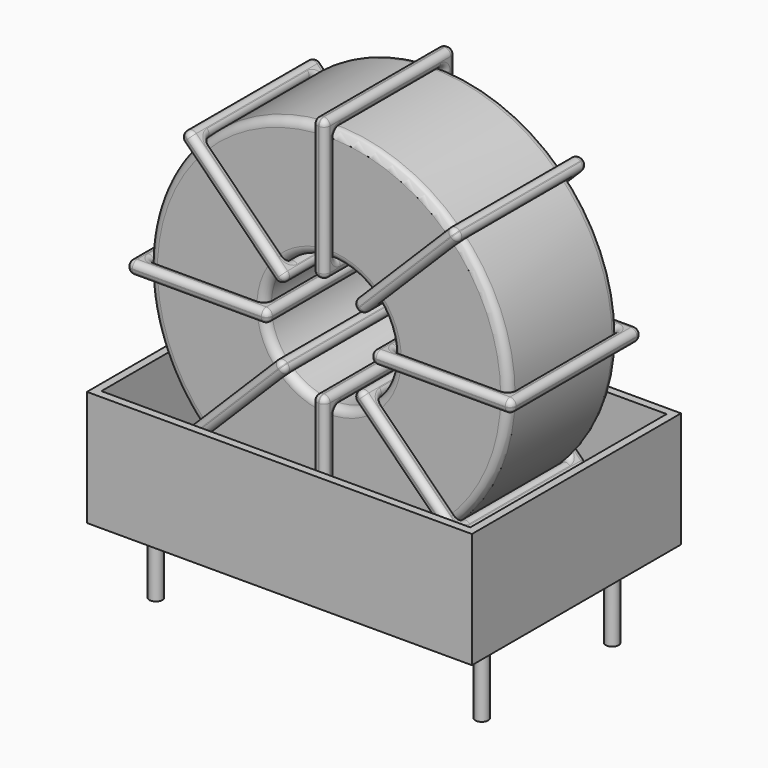
from build123d import *

# Parameters (mm, degrees)
SKETCH001_R   = 0.4
PAD001_DEPTH  = 5
SKETCH_R      = 11.2
SKETCH_R_2    = 4
PAD_DEPTH     = 4.28
FILLET_R      = 0.5
SKETCH003_W   = 8.8
SKETCH003_H   = 10.16
SKETCH003_W_2 = 7.2
SKETCH003_H_2 = 8.56
PAD002_DEPTH  = 0.4
FILLET001_R   = 0.376
SKETCH004_W   = 8.8
SKETCH004_H   = 10.16
SKETCH004_W_2 = 7.2
SKETCH004_H_2 = 8.56
PAD003_DEPTH  = 0.4
FILLET002_R   = 0.376
SKETCH005_W   = 8.8
SKETCH005_H   = 10.16
SKETCH005_W_2 = 7.2
SKETCH005_H_2 = 8.56
PAD004_DEPTH  = 0.4
FILLET003_R   = 0.376
SKETCH006_W   = 8.8
SKETCH006_H   = 10.16
SKETCH006_W_2 = 7.2
SKETCH006_H_2 = 8.56
PAD005_DEPTH  = 0.4
FILLET004_R   = 0.376
SKETCH007_W   = 24
SKETCH007_H   = 16.3
PAD006_DEPTH  = 0.5
SKETCH008_W   = 24
SKETCH008_H   = 16.3
SKETCH008_W_2 = 23
SKETCH008_H_2 = 15.3
PAD007_DEPTH  = 7.2


with BuildPart() as pad001:
    # Sketch001 → Pad001 (new body)
    with BuildSketch(Plane.XY.offset(0.75)):
        Circle(SKETCH001_R)
        with Locations((20.32, -10.16)):
            Circle(SKETCH001_R)
        with Locations((0, -10.16)):
            Circle(SKETCH001_R)
        with Locations((20.32, 0)):
            Circle(SKETCH001_R)
    extrude(amount=-PAD001_DEPTH)


with BuildPart() as fillet_body:
    # Sketch → Pad (new body, symmetric)
    with BuildSketch(Plane(origin=(10.16, -5.08, 0), x_dir=(1, 0, 0), z_dir=(0, -1, 0))):
        with Locations((0, 13.3)):
            Circle(SKETCH_R)
        with Locations((0, 13.3)):
            Circle(SKETCH_R_2, mode=Mode.SUBTRACT)
    extrude(amount=PAD_DEPTH, both=True)

    # Fillet
    fillet_edges = [fillet_body.edges().sort_by_distance(p)[0] for p in [
        (6.16, -9.36, 13.3),
        (-1.04, -9.36, 13.3),
        (-1.04, -0.8, 13.3),
    ]]
    fillet(fillet_edges, radius=FILLET_R)


with BuildPart() as fillet001:
    # Sketch003 → Pad002 (new body, symmetric)
    with BuildSketch(Plane(origin=(10.16, 0, 13.3), x_dir=(1, 0, 0), z_dir=(0, 0, -1))):
        with Locations((-7.6, 5.08)):
            Rectangle(SKETCH003_W, SKETCH003_H)
        with Locations((-7.6, 5.08)):
            Rectangle(SKETCH003_W_2, SKETCH003_H_2, mode=Mode.SUBTRACT)
        with Locations((7.6, 5.08)):
            Rectangle(SKETCH003_W, SKETCH003_H)
        with Locations((7.6, 5.08)):
            Rectangle(SKETCH003_W_2, SKETCH003_H_2, mode=Mode.SUBTRACT)
    extrude(amount=PAD002_DEPTH, both=True)

    # Fillet001
    fillet001_edges = [fillet001.edges().sort_by_distance(p)[0] for p in [
        (21.36, -9.36, 13.3),
        (21.36, -0.8, 13.3),
        (21.36, -5.08, 13.7),
        (21.36, -5.08, 12.9),
        (22.16, 0, 13.3),
        (13.36, 0, 13.3),
        (17.76, 0, 13.7),
        (17.76, 0, 12.9),
        (13.36, -10.16, 13.3),
        (13.36, -5.08, 13.7),
        (13.36, -5.08, 12.9),
        (-1.04, -9.36, 13.3),
        (6.16, -9.36, 13.3),
        (2.56, -9.36, 13.7),
        (2.56, -9.36, 12.9),
        (6.16, -0.8, 13.3),
        (6.16, -5.08, 13.7),
        (6.16, -5.08, 12.9),
        (6.96, 0, 13.3),
        (-1.84, 0, 13.3),
        (2.56, 0, 13.7),
        (2.56, 0, 12.9),
        (-1.84, -10.16, 13.3),
        (-1.84, -5.08, 13.7),
        (-1.84, -5.08, 12.9),
        (14.16, -9.36, 13.3),
        (17.76, -9.36, 13.7),
        (17.76, -9.36, 12.9),
        (-1.04, -0.8, 13.3),
        (-1.04, -5.08, 13.7),
        (-1.04, -5.08, 12.9),
        (2.56, -0.8, 13.7),
        (2.56, -0.8, 12.9),
        (6.96, -10.16, 13.3),
        (2.56, -10.16, 13.7),
        (2.56, -10.16, 12.9),
        (6.96, -5.08, 13.7),
        (6.96, -5.08, 12.9),
        (22.16, -10.16, 13.3),
        (17.76, -10.16, 13.7),
        (17.76, -10.16, 12.9),
        (22.16, -5.08, 13.7),
        (22.16, -5.08, 12.9),
        (14.16, -0.8, 13.3),
        (14.16, -5.08, 13.7),
        (14.16, -5.08, 12.9),
        (17.76, -0.8, 13.7),
        (17.76, -0.8, 12.9),
    ]]
    fillet(fillet001_edges, radius=FILLET001_R)


with BuildPart() as fillet002:
    # Sketch004 → Pad003 (new body, symmetric)
    with BuildSketch(Plane(origin=(10.16, 0, 13.3), x_dir=(0.707108, 0, 0.707106), z_dir=(0.707106, 0, -0.707108))):
        with Locations((-7.6, 5.08)):
            Rectangle(SKETCH004_W, SKETCH004_H)
        with Locations((-7.6, 5.08)):
            Rectangle(SKETCH004_W_2, SKETCH004_H_2, mode=Mode.SUBTRACT)
        with Locations((7.6, 5.08)):
            Rectangle(SKETCH004_W, SKETCH004_H)
        with Locations((7.6, 5.08)):
            Rectangle(SKETCH004_W_2, SKETCH004_H_2, mode=Mode.SUBTRACT)
    extrude(amount=PAD003_DEPTH, both=True)

    # Fillet002
    fillet002_edges = [fillet002.edges().sort_by_distance(p)[0] for p in [
        (7.33157, -9.36, 10.471576),
        (7.33157, -0.8, 10.471576),
        (7.048727, -5.08, 10.754419),
        (7.614412, -5.08, 10.188733),
        (1.674709, -10.16, 4.814728),
        (7.897256, -10.16, 11.037261),
        (4.50314, -10.16, 8.208838),
        (5.068825, -10.16, 7.643152),
        (7.897256, 0, 11.037261),
        (7.614413, -5.08, 11.320104),
        (8.180098, -5.08, 10.754418),
        (12.98843, -9.36, 16.128424),
        (18.079605, -9.36, 21.219587),
        (15.251175, -9.36, 18.956848),
        (15.81686, -9.36, 18.391162),
        (18.079605, -0.8, 21.219587),
        (17.796763, -5.08, 21.50243),
        (18.362447, -5.08, 20.936744),
        (12.422744, -10.16, 15.562739),
        (18.645291, -10.16, 21.785272),
        (15.251175, -10.16, 18.956848),
        (15.81686, -10.16, 18.391162),
        (18.645291, 0, 21.785272),
        (18.362449, -5.08, 22.068115),
        (18.928134, -5.08, 21.502429),
        (2.240395, -9.36, 5.380413),
        (4.50314, -9.36, 8.208838),
        (5.068825, -9.36, 7.643152),
        (12.98843, -0.8, 16.128424),
        (12.705588, -5.08, 16.411267),
        (13.271273, -5.08, 15.845581),
        (15.251175, -0.8, 18.956848),
        (15.81686, -0.8, 18.391162),
        (12.422744, 0, 15.562739),
        (15.251175, 0, 18.956848),
        (15.81686, 0, 18.391162),
        (12.139902, -5.08, 15.845582),
        (12.705587, -5.08, 15.279896),
        (1.674709, 0, 4.814728),
        (4.50314, 0, 8.208838),
        (5.068825, 0, 7.643152),
        (1.391866, -5.08, 5.097571),
        (1.957551, -5.08, 4.531885),
        (2.240395, -0.8, 5.380413),
        (1.957553, -5.08, 5.663256),
        (2.523237, -5.08, 5.09757),
        (4.50314, -0.8, 8.208838),
        (5.068825, -0.8, 7.643152),
    ]]
    fillet(fillet002_edges, radius=FILLET002_R)


with BuildPart() as fillet003:
    # Sketch005 → Pad004 (new body, symmetric)
    with BuildSketch(Plane(origin=(10.16, 0, 13.3), x_dir=(0.707108, 0, -0.707106), z_dir=(-0.707106, 0, -0.707108))):
        with Locations((-7.6, 5.08)):
            Rectangle(SKETCH005_W, SKETCH005_H)
        with Locations((-7.6, 5.08)):
            Rectangle(SKETCH005_W_2, SKETCH005_H_2, mode=Mode.SUBTRACT)
        with Locations((7.6, 5.08)):
            Rectangle(SKETCH005_W, SKETCH005_H)
        with Locations((7.6, 5.08)):
            Rectangle(SKETCH005_W_2, SKETCH005_H_2, mode=Mode.SUBTRACT)
    extrude(amount=PAD004_DEPTH, both=True)

    # Fillet003
    fillet003_edges = [fillet003.edges().sort_by_distance(p)[0] for p in [
        (2.240395, -9.36, 21.219587),
        (7.33157, -0.8, 16.128424),
        (5.068825, -0.8, 18.956848),
        (4.50314, -0.8, 18.391162),
        (1.674709, -10.16, 21.785272),
        (7.897256, -10.16, 15.562739),
        (5.068825, -10.16, 18.956848),
        (4.50314, -10.16, 18.391162),
        (7.897256, 0, 15.562739),
        (8.180098, -5.08, 15.845582),
        (7.614413, -5.08, 15.279896),
        (12.98843, -9.36, 10.471576),
        (18.079605, -9.36, 5.380413),
        (15.81686, -9.36, 8.208838),
        (15.251175, -9.36, 7.643152),
        (18.079605, -0.8, 5.380413),
        (18.362447, -5.08, 5.663256),
        (17.796763, -5.08, 5.09757),
        (12.422744, -10.16, 11.037261),
        (18.645291, -10.16, 4.814728),
        (15.81686, -10.16, 8.208838),
        (15.251175, -10.16, 7.643152),
        (18.645291, 0, 4.814728),
        (18.928134, -5.08, 5.097571),
        (18.362449, -5.08, 4.531885),
        (2.240395, -0.8, 21.219587),
        (2.523237, -5.08, 21.50243),
        (1.957553, -5.08, 20.936744),
        (12.98843, -0.8, 10.471576),
        (13.271273, -5.08, 10.754419),
        (12.705588, -5.08, 10.188733),
        (15.81686, -0.8, 8.208838),
        (15.251175, -0.8, 7.643152),
        (12.422744, 0, 11.037261),
        (15.81686, 0, 8.208838),
        (15.251175, 0, 7.643152),
        (12.705587, -5.08, 11.320104),
        (12.139902, -5.08, 10.754418),
        (1.674709, 0, 21.785272),
        (5.068825, 0, 18.956848),
        (4.50314, 0, 18.391162),
        (1.957551, -5.08, 22.068115),
        (1.391866, -5.08, 21.502429),
        (7.33157, -9.36, 16.128424),
        (5.068825, -9.36, 18.956848),
        (4.50314, -9.36, 18.391162),
        (7.614412, -5.08, 16.411267),
        (7.048727, -5.08, 15.845581),
    ]]
    fillet(fillet003_edges, radius=FILLET003_R)


with BuildPart() as fillet004:
    # Sketch006 → Pad005 (new body, symmetric)
    with BuildSketch(Plane(origin=(10.16, 0, 13.3), x_dir=(0, 0, 1), z_dir=(1, 0, 0))):
        with Locations((-7.6, 5.08)):
            Rectangle(SKETCH006_W, SKETCH006_H)
        with Locations((-7.6, 5.08)):
            Rectangle(SKETCH006_W_2, SKETCH006_H_2, mode=Mode.SUBTRACT)
        with Locations((7.6, 5.08)):
            Rectangle(SKETCH006_W, SKETCH006_H)
        with Locations((7.6, 5.08)):
            Rectangle(SKETCH006_W_2, SKETCH006_H_2, mode=Mode.SUBTRACT)
    extrude(amount=PAD005_DEPTH, both=True)

    # Fillet004
    fillet004_edges = [fillet004.edges().sort_by_distance(p)[0] for p in [
        (10.16, -9.36, 9.3),
        (10.16, -0.8, 9.3),
        (9.76, -5.08, 9.3),
        (10.56, -5.08, 9.3),
        (10.16, -10.16, 1.3),
        (10.16, -10.16, 10.1),
        (9.76, -10.16, 5.7),
        (10.56, -10.16, 5.7),
        (10.16, 0, 10.1),
        (9.76, -5.08, 10.1),
        (10.56, -5.08, 10.1),
        (10.16, -9.36, 17.3),
        (10.16, -9.36, 24.5),
        (9.76, -9.36, 20.9),
        (10.56, -9.36, 20.9),
        (10.16, -0.8, 24.5),
        (9.76, -5.08, 24.5),
        (10.56, -5.08, 24.5),
        (10.16, -10.16, 16.5),
        (10.16, -10.16, 25.3),
        (9.76, -10.16, 20.9),
        (10.56, -10.16, 20.9),
        (10.16, 0, 25.3),
        (9.76, -5.08, 25.3),
        (10.56, -5.08, 25.3),
        (10.16, -9.36, 2.1),
        (9.76, -9.36, 5.7),
        (10.56, -9.36, 5.7),
        (10.16, -0.8, 17.3),
        (9.76, -5.08, 17.3),
        (10.56, -5.08, 17.3),
        (9.76, -0.8, 20.9),
        (10.56, -0.8, 20.9),
        (10.16, 0, 16.5),
        (9.76, 0, 20.9),
        (10.56, 0, 20.9),
        (9.76, -5.08, 16.5),
        (10.56, -5.08, 16.5),
        (10.16, 0, 1.3),
        (9.76, 0, 5.7),
        (10.56, 0, 5.7),
        (9.76, -5.08, 1.3),
        (10.56, -5.08, 1.3),
        (10.16, -0.8, 2.1),
        (9.76, -5.08, 2.1),
        (10.56, -5.08, 2.1),
        (9.76, -0.8, 5.7),
        (10.56, -0.8, 5.7),
    ]]
    fillet(fillet004_edges, radius=FILLET004_R)


with BuildPart() as pad006:
    # Sketch007 → Pad006 (new body)
    with BuildSketch(Plane(origin=(10.16, 0, 0.5), x_dir=(1, 0, 0), z_dir=(0, 0, 1))):
        with Locations((0, -5.08)):
            Rectangle(SKETCH007_W, SKETCH007_H)
    extrude(amount=PAD006_DEPTH)


with BuildPart() as pad007:
    # Sketch008 → Pad007 (new body)
    with BuildSketch(Plane(origin=(10.16, 0, 0.5), x_dir=(1, 0, 0), z_dir=(0, 0, 1))):
        with Locations((0, -5.08)):
            Rectangle(SKETCH008_W, SKETCH008_H)
        with Locations((0, -5.08)):
            Rectangle(SKETCH008_W_2, SKETCH008_H_2, mode=Mode.SUBTRACT)
    extrude(amount=PAD007_DEPTH)


solid = Compound([pad001.part, fillet_body.part, fillet001.part, fillet002.part, fillet003.part, fillet004.part, pad006.part, pad007.part])
